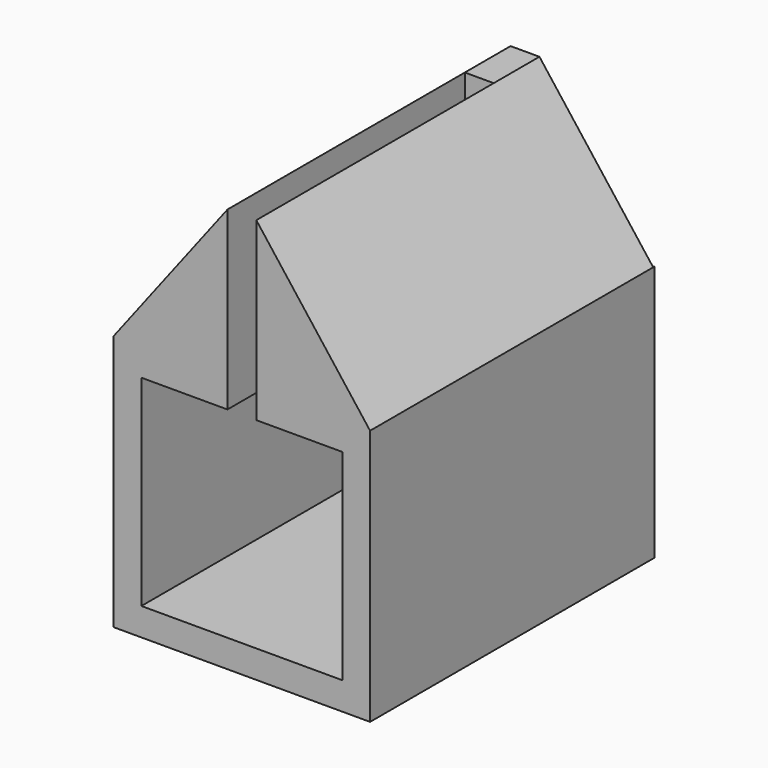
from build123d import *

# Parameters (mm, degrees)
F0_W      = 32.9184
F0_H      = 32.9184
F1_DEPTH  = 32.9184
F2_W      = 32.9184
F2_H      = 32.9184
F2_W_2    = 25.8064
F2_H_2    = 25.8064
F3_DEPTH  = 76.2
F4_W      = 3.7084
F4_H      = 76.2
F5_DEPTH  = 5.08
F7_DEPTH  = 76.2
F8_W      = 3.7084
F8_H      = 19.05
F9_DEPTH  = 7.3406
F10_DEPTH = 25.4
F11_DEPTH = 38.1


with BuildPart() as f1:
    # F0 (on Top) → F1 (new body)
    with BuildSketch(Plane.XY):
        with Locations((16.4592, -16.4592)):
            Rectangle(F0_W, F0_H)
    extrude(amount=F1_DEPTH)

    # F2 (on face) → F3 (join)
    with BuildSketch(Plane.XZ.offset(32.9184)):
        with Locations((16.4592, 16.4592)):
            Rectangle(F2_W, F2_H)
        with Locations((16.4592, 16.4592)):
            Rectangle(F2_W_2, F2_H_2, mode=Mode.SUBTRACT)
    extrude(amount=F3_DEPTH)

    # F4 (on face) → F5 (cut)
    with BuildSketch(Plane.XY.offset(32.9184)):
        with Locations((16.4592, -71.0184)):
            Rectangle(F4_W, F4_H)
    extrude(amount=-F5_DEPTH, mode=Mode.SUBTRACT)

    # F6 (on face) → F7 (join)
    with BuildSketch(Plane.XZ.offset(109.1184)):
        Polygon((0, 32.9184), (14.605, 32.9184), (14.605, 51.9684), align=None)
        Polygon((18.3134, 32.9184), (32.9184, 32.9184), (18.3134, 51.9684), align=None)
    extrude(amount=-F7_DEPTH)

    # F8 (on face) → F9 (join)
    with BuildSketch(Plane.XZ.offset(32.9184)):
        Polygon((18.3134, 51.9684), (18.3134, 32.9184), (32.9184, 32.9184), align=None)
        with Locations((16.4592, 42.4434)):
            Rectangle(F8_W, F8_H)
        Polygon((0, 32.9184), (14.605, 32.9184), (14.605, 51.9684), align=None)
    extrude(amount=-F9_DEPTH)

    # F10 (cut): a face of the model
    f10_faces = [f1.faces().sort_by_distance(p)[0] for p in [
        (16.4592, 0, 16.4592),
    ]]
    extrude(f10_faces, amount=-F10_DEPTH, mode=Mode.SUBTRACT)

    # F11 (cut): a face of the model
    f11_faces = [f1.faces().sort_by_distance(p)[0] for p in [
        (32.3032304578, -109.1184, 16.4592),
    ]]
    extrude(f11_faces, amount=-F11_DEPTH, mode=Mode.SUBTRACT)


solid = f1.part
